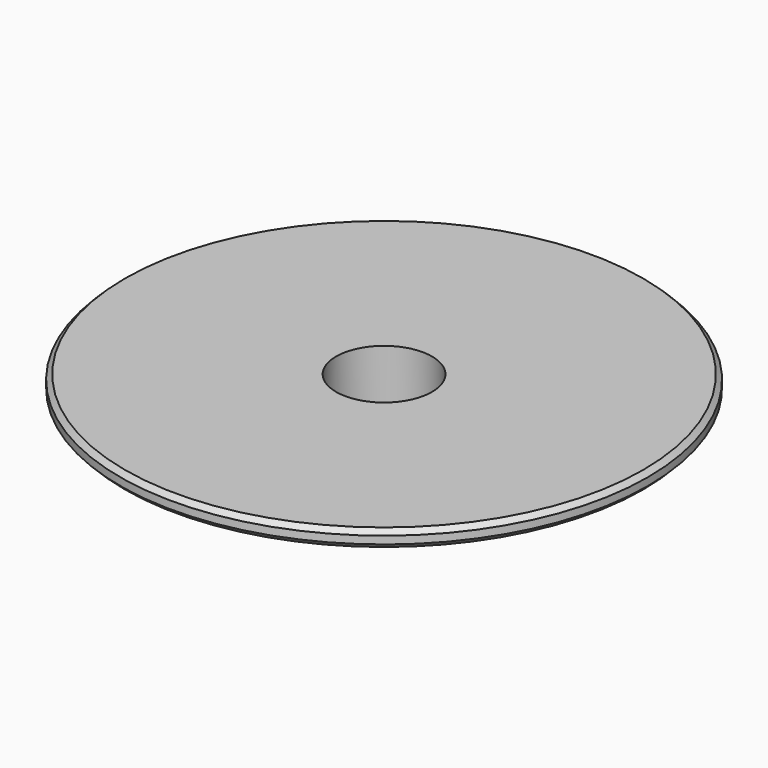
from build123d import *

# Parameters (mm, degrees)
F0_R      = 55
F1_DEPTH  = 3.6
F2_R      = 44.5
F3_DEPTH  = 2.7
F4_R      = 37.5
F5_DEPTH  = 0.8
F6_R      = 17.5
F7_DEPTH  = 15
F8_SIZE   = 2
F10_D     = 20
F10_DEPTH = 13
F10_TIP   = 6.0086061903
F13_D     = 13.5
F14_SIZE  = 1
F15_SIZE  = 1


with BuildPart() as f1:
    # F0 (on Top) → F1 (new body)
    with BuildSketch(Plane.XY):
        Circle(F0_R)
    extrude(amount=-F1_DEPTH)

    # F2 (on face) → F3 (join)
    with BuildSketch(Plane(origin=(0, 0, -3.6), x_dir=(1, 0, 0), z_dir=(0, 0, -1))):
        Circle(F2_R)
    extrude(amount=F3_DEPTH)

    # F4 (on face) → F5 (join)
    with BuildSketch(Plane(origin=(0, 0, -6.3), x_dir=(1, 0, 0), z_dir=(0, 0, -1))):
        Circle(F4_R)
    extrude(amount=F5_DEPTH)

    # F6 (on face) → F7 (join)
    with BuildSketch(Plane(origin=(0, 0, -7.1), x_dir=(1, 0, 0), z_dir=(0, 0, -1))):
        Circle(F6_R)
    extrude(amount=F7_DEPTH)

    # F8
    f8_edges = [f1.edges().sort_by_distance(p)[0] for p in [
        (-17.5, 0, -22.1),
    ]]
    chamfer(f8_edges, length=F8_SIZE)

    # F10
    with Locations(Plane.XY):
        with Locations((0, 0)):
            Hole(F10_D / 2, depth=F10_DEPTH)
            with Locations((0, 0, -(F10_DEPTH + F10_TIP / 2))):  # 118° drill point
                Cone(0, F10_D / 2, F10_TIP, mode=Mode.SUBTRACT)

    # F13 (through all)
    with Locations(Plane(origin=(0, 0, -22.1), x_dir=(1, 0, 0), z_dir=(0, 0, -1))):
        with Locations((0, 0)):
            Hole(F13_D / 2)

    # F14
    f14_edges = [f1.edges().sort_by_distance(p)[0] for p in [
        (-55, 0, 0),
    ]]
    chamfer(f14_edges, length=F14_SIZE)

    # F15
    f15_edges = [f1.edges().sort_by_distance(p)[0] for p in [
        (-55, 0, -3.6),
    ]]
    chamfer(f15_edges, length=F15_SIZE)


solid = f1.part
